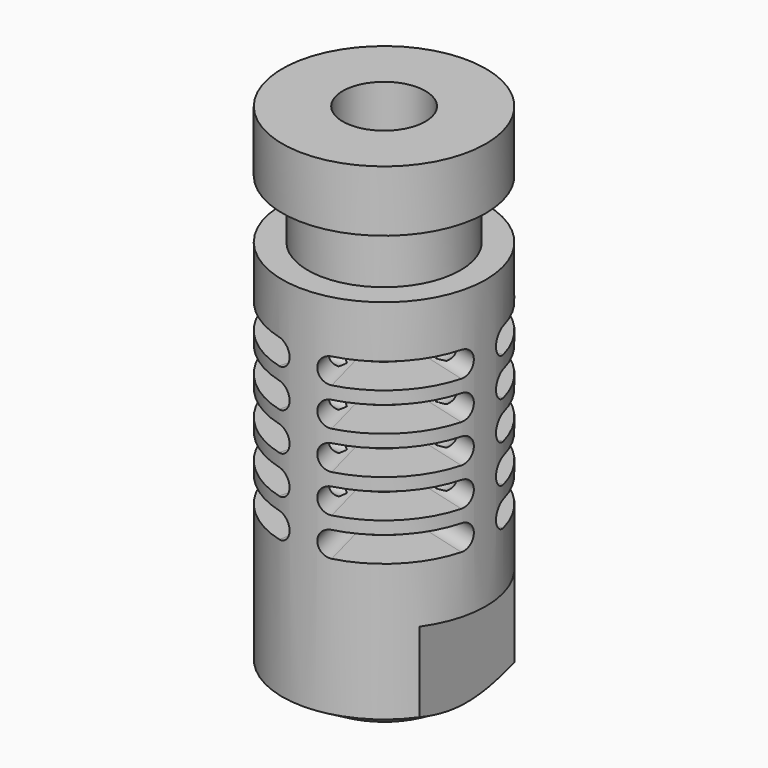
from build123d import *

# Parameters (mm, degrees)
CYLINDER041_R               = 1
CYLINDER041_DEPTH           = 2
CYLINDER041_PITCH_ANGLE     = 90
ARRAY011_COUNT              = 4
CYLINDER040_R               = 1
CYLINDER040_DEPTH           = 2
CYLINDER040_PITCH_ANGLE     = 90
ARRAY010_COUNT              = 4
CYLINDER039_R               = 1
CYLINDER039_DEPTH           = 2
CYLINDER039_PITCH_ANGLE     = 90
ARRAY009_COUNT              = 4
CYLINDER038_R               = 1
CYLINDER038_DEPTH           = 2
CYLINDER038_PITCH_ANGLE     = 90
ARRAY008_COUNT              = 4
CYLINDER035_R               = 4.2
CYLINDER035_DEPTH           = 2
CYLINDER036_W               = 14.2
CYLINDER036_H               = 2
CYLINDER036_ANGLE           = 60
CYLINDER034_R               = 1
CYLINDER034_DEPTH           = 10
CYLINDER034_PITCH_ANGLE     = 90
CYLINDER037_R               = 1
CYLINDER037_DEPTH           = 10
CYLINDER037_PITCH_ANGLE     = 90
CYLINDER037_PLACEMENT_ANGLE = 60
ARRAY005_COUNT              = 4
ARRAY005_PLACEMENT_ANGLE    = 15
ARRAY006_COUNT              = 4
ARRAY006_PLACEMENT_ANGLE    = 15
ARRAY007_COUNT              = 4
ARRAY007_PLACEMENT_ANGLE    = 15
ARRAY004_COUNT              = 4
ARRAY004_PLACEMENT_ANGLE    = 15
ARRAY003_COUNT              = 4
ARRAY003_PLACEMENT_ANGLE    = 15
BOX004_W                    = 3
BOX004_H                    = 20
BOX004_DEPTH                = 8
BOX003_W                    = 3
BOX003_H                    = 20
BOX003_DEPTH                = 8
CYLINDER033_R               = 4
CYLINDER033_DEPTH           = 4.2
CYLINDER032_R               = 3.25
CYLINDER032_DEPTH           = 42
CYLINDER031_R               = 6
CYLINDER031_DEPTH           = 10
CYLINDER030_R               = 8
CYLINDER030_DEPTH           = 4.6
CYLINDER029_R               = 8
CYLINDER029_DEPTH           = 40


with BuildPart() as array011:
    # Cylinder041 → Cylinder041 (new body)
    with BuildSketch(Plane.XY):
        Circle(CYLINDER041_R)
    extrude(amount=CYLINDER041_DEPTH)


with BuildPart() as array011_1:
    # Cylinder041 pitch: moved
    add(array011.part.rotate(Axis((0, 0, 0), (0, 1, 0)), CYLINDER041_PITCH_ANGLE))


with BuildPart() as array011_2:
    # Cylinder041 placement: moved
    add(array011_1.part.moved(Location((-1, 5.2, 16.5))))

    # Array011: Array011 ×4 about axis
    array011_axis = Axis((0, 0, 0), (0, 0, 1))


with BuildPart() as array011_3:
    add(array011_2.part)
    for i in range(1, ARRAY011_COUNT):
        add(array011_2.part.rotate(array011_axis, i * 360 / ARRAY011_COUNT))


with BuildPart() as array011_4:
    # Array011 placement: moved
    add(array011_3.part.moved(Location((0, 0, 9))))


with BuildPart() as array010:
    # Cylinder040 → Cylinder040 (new body)
    with BuildSketch(Plane.XY):
        Circle(CYLINDER040_R)
    extrude(amount=CYLINDER040_DEPTH)


with BuildPart() as array010_1:
    # Cylinder040 pitch: moved
    add(array010.part.rotate(Axis((0, 0, 0), (0, 1, 0)), CYLINDER040_PITCH_ANGLE))


with BuildPart() as array010_2:
    # Cylinder040 placement: moved
    add(array010_1.part.moved(Location((-1, 5.2, 16.5))))

    # Array010: Array010 ×4 about axis
    array010_axis = Axis((0, 0, 0), (0, 0, 1))


with BuildPart() as array010_3:
    add(array010_2.part)
    for i in range(1, ARRAY010_COUNT):
        add(array010_2.part.rotate(array010_axis, i * 360 / ARRAY010_COUNT))


with BuildPart() as array010_4:
    # Array010 placement: moved
    add(array010_3.part.moved(Location((0, 0, 6))))


with BuildPart() as array009:
    # Cylinder039 → Cylinder039 (new body)
    with BuildSketch(Plane.XY):
        Circle(CYLINDER039_R)
    extrude(amount=CYLINDER039_DEPTH)


with BuildPart() as array009_1:
    # Cylinder039 pitch: moved
    add(array009.part.rotate(Axis((0, 0, 0), (0, 1, 0)), CYLINDER039_PITCH_ANGLE))


with BuildPart() as array009_2:
    # Cylinder039 placement: moved
    add(array009_1.part.moved(Location((-1, 5.2, 16.5))))

    # Array009: Array009 ×4 about axis
    array009_axis = Axis((0, 0, 0), (0, 0, 1))


with BuildPart() as array009_3:
    add(array009_2.part)
    for i in range(1, ARRAY009_COUNT):
        add(array009_2.part.rotate(array009_axis, i * 360 / ARRAY009_COUNT))


with BuildPart() as array009_4:
    # Array009 placement: moved
    add(array009_3.part.moved(Location((0, 0, 3))))


with BuildPart() as array008:
    # Cylinder038 → Cylinder038 (new body)
    with BuildSketch(Plane.XY):
        Circle(CYLINDER038_R)
    extrude(amount=CYLINDER038_DEPTH)


with BuildPart() as array008_1:
    # Cylinder038 pitch: moved
    add(array008.part.rotate(Axis((0, 0, 0), (0, 1, 0)), CYLINDER038_PITCH_ANGLE))


with BuildPart() as array008_2:
    # Cylinder038 placement: moved
    add(array008_1.part.moved(Location((-1, 5.2, 16.5))))

    # Array008: Array008 ×4 about axis
    array008_axis = Axis((0, 0, 0), (0, 0, 1))


with BuildPart() as array008_3:
    add(array008_2.part)
    for i in range(1, ARRAY008_COUNT):
        add(array008_2.part.rotate(array008_axis, i * 360 / ARRAY008_COUNT))


with BuildPart() as cilindro027:
    # Cylinder035 → Cylinder035 (new body)
    with BuildSketch(Plane.XY.offset(-1)):
        Circle(CYLINDER035_R)
    extrude(amount=CYLINDER035_DEPTH)


with BuildPart() as cut023:
    # Cylinder036 → Cylinder036 (revolve)
    with BuildSketch(Plane(origin=(0, 0, -1), x_dir=(1, 0, 0), z_dir=(0, -1, 0))):
        with Locations((7.1, 1)):
            Rectangle(CYLINDER036_W, CYLINDER036_H)
    revolve(axis=Axis((0, 0, -1), (0, 0, 1)), revolution_arc=CYLINDER036_ANGLE)

    # Cut023: cut Cilindro027
    add(cilindro027.part, mode=Mode.SUBTRACT)


with BuildPart() as fusion010:
    # Cylinder034 → Cylinder034 (new body)
    with BuildSketch(Plane.XY):
        Circle(CYLINDER034_R)
    extrude(amount=CYLINDER034_DEPTH)


with BuildPart() as fusion010_1:
    # Cylinder034 pitch: moved
    add(fusion010.part.rotate(Axis((0, 0, 0), (0, 1, 0)), CYLINDER034_PITCH_ANGLE))


with BuildPart() as fusion010_2:
    # Cylinder034 placement: moved
    add(fusion010_1.part.moved(Location((4.2, 0, 0))))

    # Fusion010: union Cut023
    add(cut023.part)


with BuildPart() as cilindro029:
    # Cylinder037 → Cylinder037 (new body)
    with BuildSketch(Plane.XY):
        Circle(CYLINDER037_R)
    extrude(amount=CYLINDER037_DEPTH)


with BuildPart() as cilindro029_1:
    # Cylinder037 pitch: moved
    add(cilindro029.part.rotate(Axis((0, 0, 0), (0, 1, 0)), CYLINDER037_PITCH_ANGLE))


with BuildPart() as cilindro029_2:
    # Cylinder037 placement: moved
    add(cilindro029_1.part.moved(Location((2.1, 3.637307, 0))).rotate(Axis((2.1, 3.637307, 0), (0, 0, 1)), CYLINDER037_PLACEMENT_ANGLE))


with BuildPart() as fusion011:
    # Fusion011 base: copy of Cilindro029
    add(cilindro029_2.part)

    # Fusion011: union Fusion010
    add(fusion010_2.part)


with BuildPart() as array005:
    # Array005 base: copy of Fusion011
    add(fusion011.part)

    # Array005: Array005 ×4 about axis
    array005_axis = Axis((0, 0, 0), (0, 0, 1))


with BuildPart() as array005_1:
    add(array005.part)
    for i in range(1, ARRAY005_COUNT):
        add(array005.part.rotate(array005_axis, i * 360 / ARRAY005_COUNT))


with BuildPart() as array005_2:
    # Array005 placement: moved
    add(array005_1.part.moved(Location((0, 0, 22.5))).rotate(Axis((0, 0, 22.5), (0, 0, 1)), ARRAY005_PLACEMENT_ANGLE))


with BuildPart() as array006:
    # Fusion013 base: copy of Cilindro029
    add(cilindro029_2.part)

    # Fusion013: union Fusion010
    add(fusion010_2.part)

    # Array006: Array006 ×4 about axis
    array006_axis = Axis((0, 0, 0), (0, 0, 1))


with BuildPart() as array006_1:
    add(array006.part)
    for i in range(1, ARRAY006_COUNT):
        add(array006.part.rotate(array006_axis, i * 360 / ARRAY006_COUNT))


with BuildPart() as array006_2:
    # Array006 placement: moved
    add(array006_1.part.moved(Location((0, 0, 19.5))).rotate(Axis((0, 0, 19.5), (0, 0, 1)), ARRAY006_PLACEMENT_ANGLE))


with BuildPart() as array007:
    # Fusion014 base: copy of Cilindro029
    add(cilindro029_2.part)

    # Fusion014: union Fusion010
    add(fusion010_2.part)

    # Array007: Array007 ×4 about axis
    array007_axis = Axis((0, 0, 0), (0, 0, 1))


with BuildPart() as array007_1:
    add(array007.part)
    for i in range(1, ARRAY007_COUNT):
        add(array007.part.rotate(array007_axis, i * 360 / ARRAY007_COUNT))


with BuildPart() as array007_2:
    # Array007 placement: moved
    add(array007_1.part.moved(Location((0, 0, 25.5))).rotate(Axis((0, 0, 25.5), (0, 0, 1)), ARRAY007_PLACEMENT_ANGLE))


with BuildPart() as array004:
    # Fusion012 base: copy of Cilindro029
    add(cilindro029_2.part)

    # Fusion012: union Fusion010
    add(fusion010_2.part)

    # Array004: Array004 ×4 about axis
    array004_axis = Axis((0, 0, 0), (0, 0, 1))


with BuildPart() as array004_1:
    add(array004.part)
    for i in range(1, ARRAY004_COUNT):
        add(array004.part.rotate(array004_axis, i * 360 / ARRAY004_COUNT))


with BuildPart() as array004_2:
    # Array004 placement: moved
    add(array004_1.part.moved(Location((0, 0, 16.5))).rotate(Axis((0, 0, 16.5), (0, 0, 1)), ARRAY004_PLACEMENT_ANGLE))


with BuildPart() as array003:
    # Array003 base: copy of Fusion011
    add(fusion011.part)

    # Array003: Array003 ×4 about axis
    array003_axis = Axis((0, 0, 0), (0, 0, 1))


with BuildPart() as array003_1:
    add(array003.part)
    for i in range(1, ARRAY003_COUNT):
        add(array003.part.rotate(array003_axis, i * 360 / ARRAY003_COUNT))


with BuildPart() as array003_2:
    # Array003 placement: moved
    add(array003_1.part.moved(Location((0, 0, 13.5))).rotate(Axis((0, 0, 13.5), (0, 0, 1)), ARRAY003_PLACEMENT_ANGLE))


with BuildPart() as cubo001:
    # Box004 → Box004 (new body)
    with BuildSketch(Plane(origin=(-9.5, -10, 0), x_dir=(1, 0, 0), z_dir=(0, 0, 1))):
        with Locations((1.5, 10)):
            Rectangle(BOX004_W, BOX004_H)
    extrude(amount=BOX004_DEPTH)


with BuildPart() as cubo:
    # Box003 → Box003 (new body)
    with BuildSketch(Plane(origin=(6.5, -10, 0), x_dir=(1, 0, 0), z_dir=(0, 0, 1))):
        with Locations((1.5, 10)):
            Rectangle(BOX003_W, BOX003_H)
    extrude(amount=BOX003_DEPTH)


with BuildPart() as revolution:
    # Sketch005 → Revolution (revolve)
    with BuildSketch(Plane.XZ):
        Polygon((-11.69058, 3.862808), (-1.298468, -2.137081), (-11.69058, -2.137081), align=None)
    revolve(axis=Axis((0, 0, 0), (0, 0, 1)))


with BuildPart() as cilindro025:
    # Cylinder033 → Cylinder033 (new body)
    with BuildSketch(Plane.XY.offset(-1)):
        Circle(CYLINDER033_R)
    extrude(amount=CYLINDER033_DEPTH)


with BuildPart() as cilindro024:
    # Cylinder032 → Cylinder032 (new body)
    with BuildSketch(Plane.XY.offset(-1)):
        Circle(CYLINDER032_R)
    extrude(amount=CYLINDER032_DEPTH)


with BuildPart() as cilindro023:
    # Cylinder031 → Cylinder031 (new body)
    with BuildSketch(Plane.XY.offset(-2)):
        Circle(CYLINDER031_R)
    extrude(amount=CYLINDER031_DEPTH)


with BuildPart() as cut018:
    # Cylinder030 → Cylinder030 (new body)
    with BuildSketch(Plane.XY):
        Circle(CYLINDER030_R)
    extrude(amount=CYLINDER030_DEPTH)

    # Cut018: cut Cilindro023
    add(cilindro023.part, mode=Mode.SUBTRACT)


with BuildPart() as cut018_1:
    # Cut018 placement: moved
    add(cut018.part.moved(Location((0, 0, 30.6))))


with BuildPart() as cuerpo_j_head:
    # Cylinder029 → Cylinder029 (new body)
    with BuildSketch(Plane.XY):
        Circle(CYLINDER029_R)
    extrude(amount=CYLINDER029_DEPTH)

    # Cut019: cut Cut018
    add(cut018_1.part, mode=Mode.SUBTRACT)

    # Cut020: cut Cilindro024
    add(cilindro024.part, mode=Mode.SUBTRACT)

    # Cut021: cut Cilindro025
    add(cilindro025.part, mode=Mode.SUBTRACT)

    # Cut022: cut Revolution
    add(revolution.part, mode=Mode.SUBTRACT)

    # Cut024: cut Cubo
    add(cubo.part, mode=Mode.SUBTRACT)

    # Cut025: cut Cubo001
    add(cubo001.part, mode=Mode.SUBTRACT)

    # Cut026: cut Array003
    add(array003_2.part, mode=Mode.SUBTRACT)

    # Cut027: cut Array004
    add(array004_2.part, mode=Mode.SUBTRACT)

    # Cut028: cut Array007
    add(array007_2.part, mode=Mode.SUBTRACT)

    # Cut029: cut Array006
    add(array006_2.part, mode=Mode.SUBTRACT)

    # Cut030: cut Array005
    add(array005_2.part, mode=Mode.SUBTRACT)

    # Cut031: cut Array008
    add(array008_3.part, mode=Mode.SUBTRACT)

    # Cut032: cut Array009
    add(array009_4.part, mode=Mode.SUBTRACT)

    # Cut033: cut Array010
    add(array010_4.part, mode=Mode.SUBTRACT)

    # Cut034: cut Array011
    add(array011_4.part, mode=Mode.SUBTRACT)


with BuildPart() as cuerpo_j_head_1:
    # Cut034 placement: moved
    add(cuerpo_j_head.part.moved(Location((118.4, 102, 252))))


solid = cuerpo_j_head_1.part
